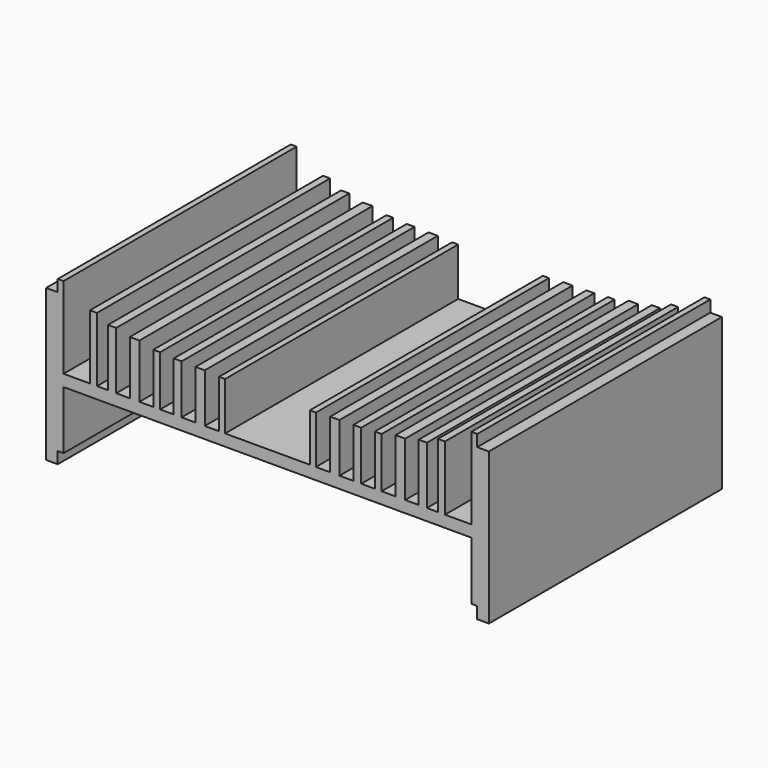
from build123d import *

# Parameters (mm, degrees)
F1_DEPTH = 50


with BuildPart() as f1:
    # F0 (on Front) → F1 (new body)
    with BuildSketch(Plane.XZ):
        Polygon((-32.71965, -1.156258), (-34.71965, -1.156258), (-34.71965, -27.156258), (-32.71965, -27.156258), (-32.71965, -25.156258), (-31.71965, -25.156258), (-31.71965, -15.156258), (3.28035, -15.156258), (3.28035, -13.156258), (-3.990049, -13.156258), (-3.990049, -4.930804), (-5.031774, -4.930804), (-5.031774, -13.156258), (-7.482894, -13.156258), (-7.482894, -4.748633), (-9.076121, -4.748633), (-9.076121, -13.156258), (-11.465962, -13.156258), (-11.465962, -4.689338), (-12.814078, -4.689338), (-12.814078, -13.156258), (-15.142641, -13.156258), (-15.142641, -4.507166), (-16.306924, -4.507166), (-16.306924, -13.156258), (-18.696764, -13.156258), (-18.696764, -3.896165), (-20.35127, -3.896165), (-20.35127, -13.156258), (-22.679834, -13.156258), (-22.679834, -3.285282), (-24.089226, -3.285282), (-24.089226, -13.156258), (-25.978331, -13.156258), (-25.978331, -2.091579), (-27.191572, -2.091579), (-27.191572, -13.156258), (-31.71965, -13.156258), (-31.71965, 0.843742), (-32.71965, 0.843742), align=None)
        Polygon((3.28035, -13.156258), (3.28035, -15.156258), (38.28035, -15.156258), (38.28035, -25.156258), (39.28035, -25.156258), (39.28035, -27.156258), (41.28035, -27.156258), (41.28035, -1.156258), (39.28035, -1.156258), (39.28035, 0.843742), (38.28035, 0.843742), (38.28035, -13.156258), (33.752272, -13.156258), (33.752272, -2.091579), (32.539031, -2.091579), (32.539031, -13.156258), (30.649927, -13.156258), (30.649927, -3.285282), (29.240534, -3.285282), (29.240534, -13.156258), (26.911971, -13.156258), (26.911971, -3.896165), (25.257465, -3.896165), (25.257465, -13.156258), (22.867624, -13.156258), (22.867624, -4.507166), (21.703342, -4.507166), (21.703342, -13.156258), (19.374778, -13.156258), (19.374778, -4.689338), (18.026663, -4.689338), (18.026663, -13.156258), (15.636822, -13.156258), (15.636822, -4.748633), (14.043595, -4.748633), (14.043595, -13.156258), (11.592475, -13.156258), (11.592475, -4.930804), (10.550749, -4.930804), (10.550749, -13.156258), align=None)
    extrude(amount=F1_DEPTH)


solid = f1.part
